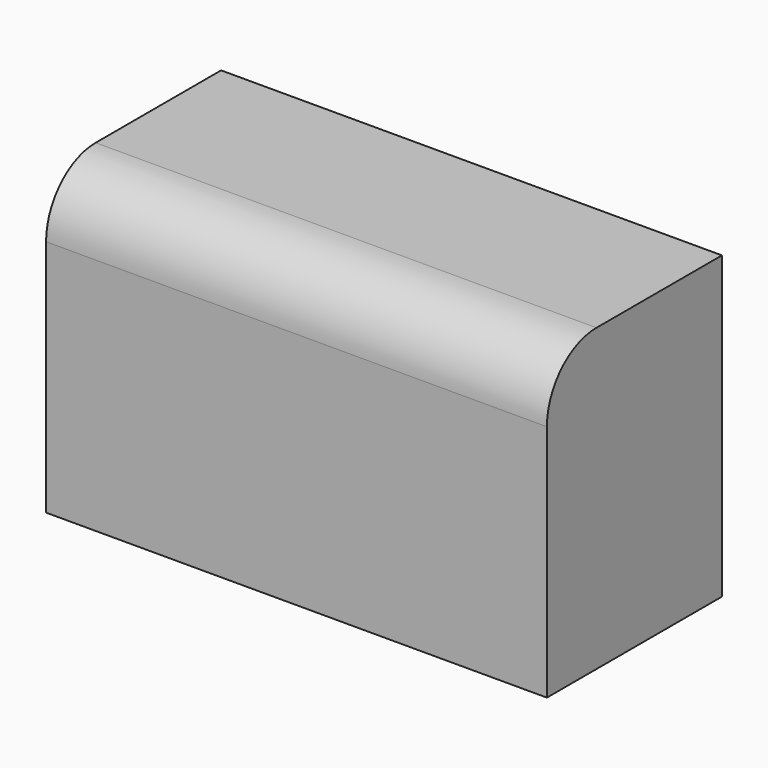
from build123d import *

# Parameters (mm, degrees)
F0_W          = 205.353483
F0_H          = 89.688323
F1_DEPTH      = 97.79
F1_DEPTH_BACK = 25.4
F2_R          = 25.4


with BuildPart() as f1:
    # F0 (on Top) → F1 (new body, two sides)
    with BuildSketch(Plane.XY) as f1_sk:
        with Locations((-19.61746, 4.126131)):
            Rectangle(F0_W, F0_H)
    extrude(amount=F1_DEPTH)
    extrude(f1_sk.sketch, amount=-F1_DEPTH_BACK)

    # F2
    f2_edges = [f1.edges().sort_by_distance(p)[0] for p in [
        (-19.617461, -40.71803, 97.79),
    ]]
    fillet(f2_edges, radius=F2_R)


solid = f1.part
